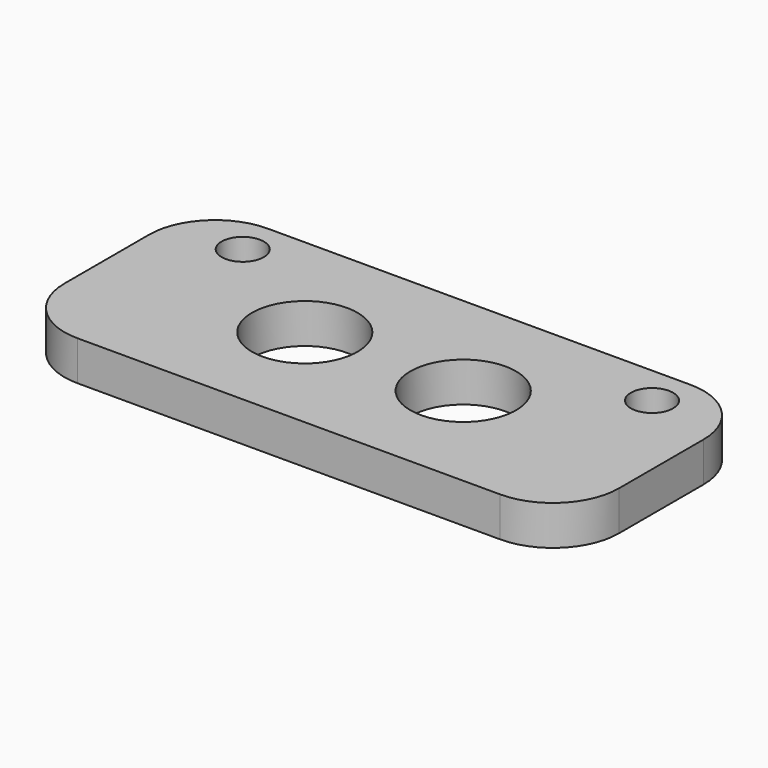
from build123d import *

# Parameters (mm, degrees)
F0_W     = 42
F0_H     = 18
F1_DEPTH = 3
F2_D     = 3.2
F3_D     = 8
F4_R     = 5


with BuildPart() as f1:
    # F0 (on Top) → F1 (new body)
    with BuildSketch(Plane.XY):
        with Locations((-31.3194459304, 19.2188901754)):
            Rectangle(F0_W, F0_H)
    extrude(amount=F1_DEPTH)

    # F2 (through all)
    with Locations(Plane(origin=(0, 0, 0), x_dir=(1, 0, 0), z_dir=(0, 0, -1))):
        with Locations((-46.8194459304, -25.2188901754), (-15.8194459304, -25.2188901754)):
            Hole(F2_D / 2)

    # F3 (through all)
    with Locations(Plane(origin=(0, 0, 0), x_dir=(1, 0, 0), z_dir=(0, 0, -1))):
        with Locations((-25.3194459304, -19.2188901754), (-37.3194459304, -19.2188901754)):
            Hole(F3_D / 2)

    # F4
    f4_edges = [f1.edges().sort_by_distance(p)[0] for p in [
        (-52.319446, 28.21889, 1.5),
        (-52.319446, 10.21889, 1.5),
        (-10.319446, 28.21889, 1.5),
        (-10.319446, 10.21889, 1.5),
    ]]
    fillet(f4_edges, radius=F4_R)


solid = f1.part
